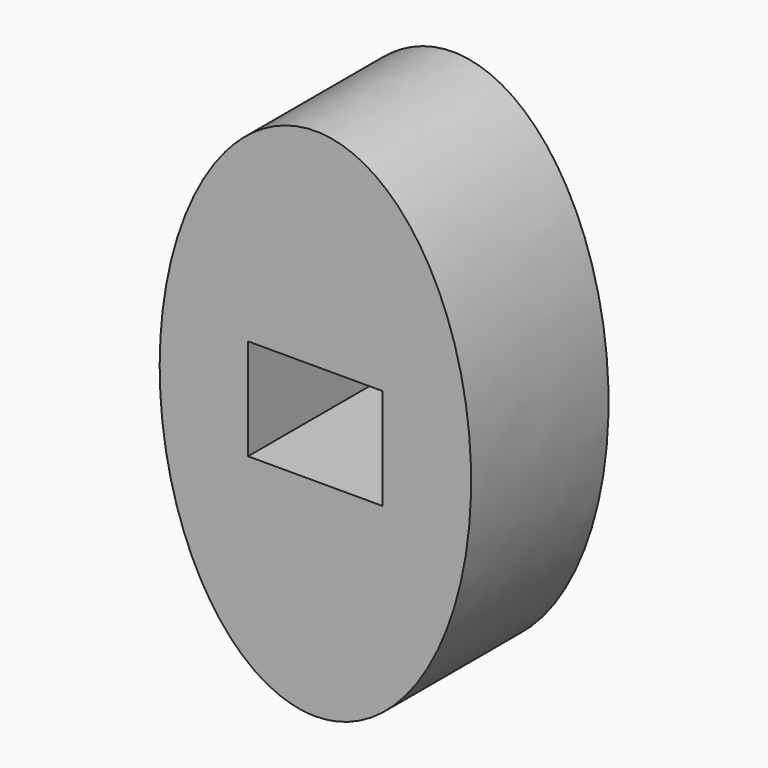
from build123d import *

# Parameters (mm, degrees)
F0_W     = 19.9136
F0_H     = 14.9606
F1_DEPTH = 25.4


with BuildPart() as f1:
    # F0 (on Front) → F1 (new body)
    with BuildSketch(Plane.XZ):
        with BuildLine():
            add(Edge.make_bspline(
                [(0, -15.293105), (39.886275, -15.293105), (19.943138, 41.856895), (0, 99.006895), (-19.943138, 41.856895), (-39.886275, -15.293105), (0, -15.293105)],
                knots=[0, 0, 0, 2.094395, 2.094395, 4.18879, 4.18879, 6.283185, 6.283185, 6.283185], degree=2, weights=[1, 0.5, 1, 0.5, 1, 0.5, 1]))
        make_face()
        with Locations((0, 22.806895)):
            Rectangle(F0_W, F0_H, mode=Mode.SUBTRACT)
    extrude(amount=F1_DEPTH)


solid = f1.part
